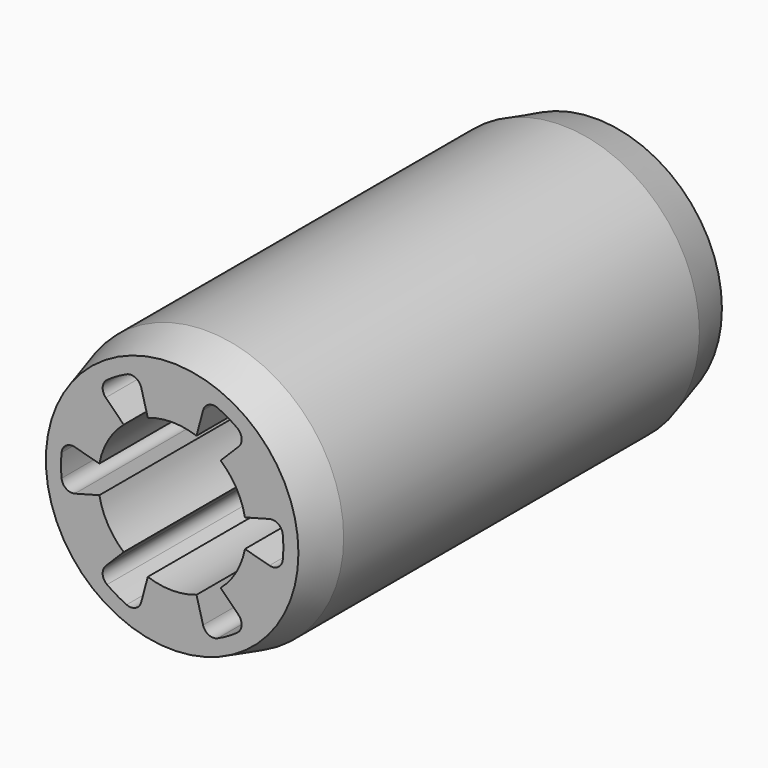
from build123d import *

# Parameters (mm, degrees)
F0_R     = 6.5
F1_DEPTH = 25
F2_R     = 0.5
F3_SIZE2 = 0.5358983849
F3_SIZE  = 2


with BuildPart() as f1:
    # F0 (on Front) → F1 (new body)
    with BuildSketch(Plane.XZ):
        Circle(F0_R)
        with BuildLine():
            ThreePointArc((5.1311754503, 1.1106477833), (5.2202093403, 0.5584930108), (5.25, 0))
            ThreePointArc((5.25, 0), (5.2202093403, -0.5584930108), (5.1311754503, -1.1106477833))
            ThreePointArc((5.1311754503, -1.1106477833), (4.5466333699, -2.625), (3.5274369202, -3.8884043995))
            ThreePointArc((3.5274369202, -3.8884043995), (2.625, -4.5466333699), (1.6037385301, -4.9990521829))
            ThreePointArc((1.6037385301, -4.9990521829), (0, -5.25), (-1.6037385301, -4.9990521829))
            ThreePointArc((-1.6037385301, -4.9990521829), (-2.625, -4.5466333699), (-3.5274369202, -3.8884043995))
            ThreePointArc((-3.5274369202, -3.8884043995), (-4.5466333699, -2.625), (-5.1311754503, -1.1106477833))
            ThreePointArc((-5.1311754503, -1.1106477833), (-5.25, 0), (-5.1311754503, 1.1106477833))
            ThreePointArc((-5.1311754503, 1.1106477833), (-4.5466333699, 2.625), (-3.5274369202, 3.8884043995))
            ThreePointArc((-3.5274369202, 3.8884043995), (-2.625, 4.5466333699), (-1.6037385301, 4.9990521829))
            ThreePointArc((-1.6037385301, 4.9990521829), (0, 5.25), (1.6037385301, 4.9990521829))
            ThreePointArc((1.6037385301, 4.9990521829), (2.625, 4.5466333699), (3.5274369202, 3.8884043995))
            ThreePointArc((3.5274369202, 3.8884043995), (4.5466333699, 2.625), (5.1311754503, 1.1106477833))
        make_face(mode=Mode.SUBTRACT)
        with BuildLine():
            Line((1.15, 3.3056769352), (1.6037385301, 4.9990521829))
            ThreePointArc((1.6037385301, 4.9990521829), (0, 5.25), (-1.6037385301, 4.9990521829))
            Line((-1.6037385301, 4.9990521829), (-1.15, 3.3056769352))
            ThreePointArc((-1.15, 3.3056769352), (0, 3.5), (1.15, 3.3056769352))
        make_face()
        with BuildLine():
            Line((3.4378002026, 0.6569092533), (5.1311754503, 1.1106477833))
            ThreePointArc((5.1311754503, 1.1106477833), (4.5466333699, 2.625), (3.5274369202, 3.8884043995))
            Line((3.5274369202, 3.8884043995), (2.2878002026, 2.648767682))
            ThreePointArc((2.2878002026, 2.648767682), (3.0310889132, 1.75), (3.4378002026, 0.6569092533))
        make_face()
        with BuildLine():
            ThreePointArc((3.5274369202, -3.8884043995), (4.5466333699, -2.625), (5.1311754503, -1.1106477833))
            Line((5.1311754503, -1.1106477833), (3.4378002026, -0.6569092533))
            ThreePointArc((3.4378002026, -0.6569092533), (3.0310889132, -1.75), (2.2878002026, -2.648767682))
            Line((2.2878002026, -2.648767682), (3.5274369202, -3.8884043995))
        make_face()
        with BuildLine():
            ThreePointArc((-1.6037385301, -4.9990521829), (0, -5.25), (1.6037385301, -4.9990521829))
            Line((1.6037385301, -4.9990521829), (1.15, -3.3056769352))
            ThreePointArc((1.15, -3.3056769352), (0, -3.5), (-1.15, -3.3056769352))
            Line((-1.15, -3.3056769352), (-1.6037385301, -4.9990521829))
        make_face()
        with BuildLine():
            ThreePointArc((-5.1311754503, -1.1106477833), (-4.5466333699, -2.625), (-3.5274369202, -3.8884043995))
            Line((-3.5274369202, -3.8884043995), (-2.2878002026, -2.648767682))
            ThreePointArc((-2.2878002026, -2.648767682), (-3.0310889132, -1.75), (-3.4378002026, -0.6569092533))
            Line((-3.4378002026, -0.6569092533), (-5.1311754503, -1.1106477833))
        make_face()
        with BuildLine():
            Line((-2.2878002026, 2.648767682), (-3.5274369202, 3.8884043995))
            ThreePointArc((-3.5274369202, 3.8884043995), (-4.5466333699, 2.625), (-5.1311754503, 1.1106477833))
            Line((-5.1311754503, 1.1106477833), (-3.4378002026, 0.6569092533))
            ThreePointArc((-3.4378002026, 0.6569092533), (-3.0310889132, 1.75), (-2.2878002026, 2.648767682))
        make_face()
    extrude(amount=F1_DEPTH)

    # F2
    f2_edges = [f1.edges().sort_by_distance(p)[0] for p in [
        (-3.527437, -12.5, 3.888404),
        (-1.603739, -12.5, 4.999052),
        (1.603739, -12.5, 4.999052),
        (3.527437, -12.5, 3.888404),
        (5.131175, -12.5, 1.110648),
        (5.131175, -12.5, -1.110648),
        (3.527437, -12.5, -3.888404),
        (1.603739, -12.5, -4.999052),
        (-1.603739, -12.5, -4.999052),
        (-3.527437, -12.5, -3.888404),
        (-5.131175, -12.5, -1.110648),
        (-5.131175, -12.5, 1.110648),
    ]]
    fillet(f2_edges, radius=F2_R)

    # F3
    f3_edges = [f1.edges().sort_by_distance(p)[0] for p in [
        (6.5, -12.5, 0),
        (-6.5, 0, 0),
        (-6.5, -25, 0),
    ]]
    f3_side = f1.faces().sort_by_distance((-6.5, -12.5, 0))[0]
    chamfer(f3_edges, length=F3_SIZE, length2=F3_SIZE2, reference=f3_side)


solid = f1.part
